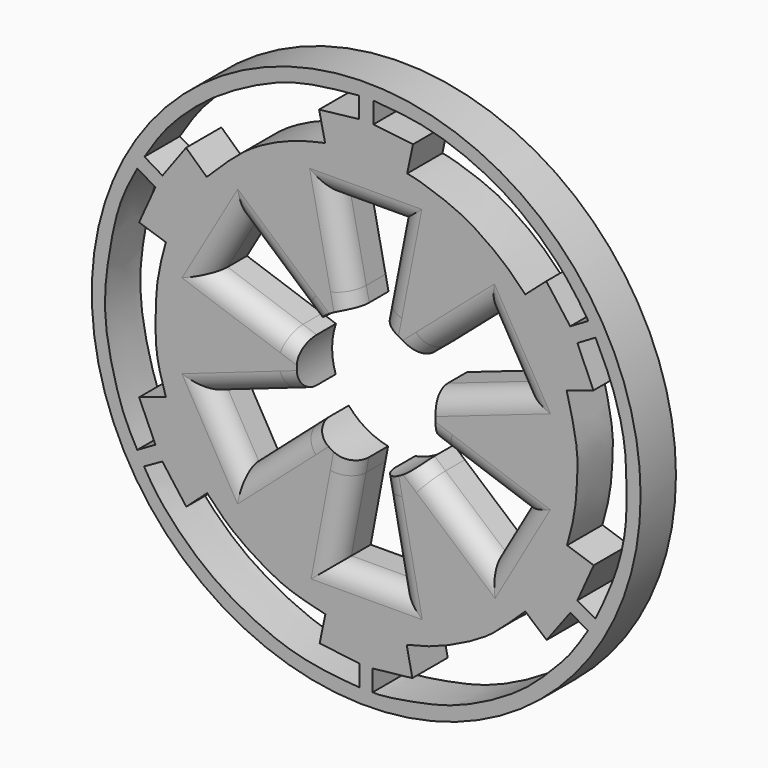
from build123d import *

# Parameters (mm, degrees)
F0_R     = 44.1766957939
F1_DEPTH = 7.112
F2_R     = 3.2356953031


with BuildPart() as f1:
    # F0 (on Front) → F1 (new body)
    with BuildSketch(Plane.XZ):
        Circle(F0_R)
        with BuildLine():
            Line((-35.7614904642, -21.8675043434), (-32.8106060624, -20.2139895409))
            Line((-32.8106060624, -20.2139895409), (-28.960403055, -25.3720507026))
            Line((-28.960403055, -25.3720507026), (-25.6024971604, -22.3448481411))
            add(Edge.make_bspline(
                [(-25.6024971604, -22.3448481411), (-24.4866790774, -23.5368590352), (-22.204068401, -25.9753360906), (-17.7013799325, -29.0917808365), (-12.9462521926, -31.7846215915), (-8.7627386027, -32.7983811652), (-6.5728682093, -33.3290360868)],
                knots=[0, 0, 0, 0, 0.2355446258, 0.4818497619, 0.7287729939, 1, 1, 1, 1], degree=3))
            Line((-6.5728682093, -33.3290360868), (-7.490250282, -37.7452149987))
            Line((-7.490250282, -37.7452149987), (-1.1156453984, -38.5228171945))
            Line((-1.1156453984, -38.5228171945), (-1.1156453984, -41.9061630964))
            add(Edge.make_bspline(
                [(-35.7614904642, -21.8675043434), (-35.2338448714, -22.7604678514), (-34.0865501542, -24.7020974776), (-31.2890173993, -28.1627256368), (-26.2777085453, -33.0596634812), (-20.0181100974, -37.0541543915), (-12.9599832666, -40.2091309454), (-6.7449542396, -41.4599766224), (-2.9534000516, -41.7605002287), (-1.1156453984, -41.9061630964)],
                knots=[0, 0, 0, 0, 0.1055322762, 0.2294658093, 0.3854964247, 0.5481129391, 0.7120197184, 0.8604168433, 1, 1, 1, 1], degree=3))
        make_face(mode=Mode.SUBTRACT)
        with BuildLine():
            Line((29.0394388139, -25.4001896828), (32.8793115914, -20.255388692))
            Line((32.8793115914, -20.255388692), (35.6775633991, -21.9343416393))
            add(Edge.make_bspline(
                [(1.0446998058, -41.9061630964), (1.4142405393, -41.9243444832), (2.4177240084, -41.9737158229), (6.2635475029, -41.3957263121), (9.9347318114, -40.7048681306), (14.3227087538, -39.6100702965), (19.5640532357, -37.2118500308), (23.7432665832, -34.7364439875), (27.2077761914, -32.1462858648), (31.2241198499, -28.0559070873), (33.2655694418, -25.6975315778), (34.8310406537, -23.2550853619), (35.6775633991, -21.9343416393)],
                knots=[0, 0, 0, 0, 0.0564376647, 0.1532558075, 0.2510560866, 0.3562412055, 0.4759055262, 0.5848852008, 0.689364245, 0.8068772402, 0.8955695847, 1, 1, 1, 1], degree=3))
            Line((1.0446998058, -41.9061630964), (1.0446998058, -38.5228171945))
            Line((1.0446998058, -38.5228171945), (7.4303904548, -37.824023515))
            Line((7.4303904548, -37.824023515), (6.5205958672, -33.3953052759))
            add(Edge.make_bspline(
                [(6.5205958672, -33.3953052759), (7.7992360224, -33.0926907352), (10.5186850112, -32.449081348), (15.2023600967, -30.4614472633), (19.6829738823, -27.9527868768), (22.4818586441, -25.4265122473), (24.5413294263, -23.4663723344), (25.6055921743, -22.453440319)],
                knots=[0, 0, 0, 0, 0.1907843597, 0.4057657128, 0.6200100275, 0.8036344211, 1, 1, 1, 1], degree=3))
            Line((25.6055921743, -22.453440319), (29.0394388139, -25.4001896828))
        make_face(mode=Mode.SUBTRACT)
        with BuildLine():
            Line((-33.9299067855, -18.2043351233), (-36.8553549051, -19.8832862079))
            add(Edge.make_bspline(
                [(-36.8683189154, 19.9755635113), (-37.8473096829, 18.1661673169), (-39.9227314212, 14.3303188905), (-41.4462825011, 6.4196994134), (-42.2825510016, -0.0305786633), (-41.7032306283, -6.7321583358), (-39.3782984167, -15.3221356766), (-37.6167947073, -18.5067030452), (-36.8553549051, -19.8832862079)],
                knots=[0, 0, 0, 0, 0.1604269609, 0.3400988172, 0.5016116203, 0.6671400202, 0.8561156381, 1, 1, 1, 1], degree=3))
            Line((-36.8683189154, 19.9755635113), (-33.9174345136, 18.3220505714))
            Line((-33.9174345136, 18.3220505714), (-36.5551263094, 12.4670509249))
            Line((-36.5551263094, 12.4670509249), (-32.259516418, 11.0363457352))
            add(Edge.make_bspline(
                [(-32.2571396828, -10.874543339), (-32.8195026762, -9.0678543769), (-33.9351137732, -5.4837596226), (-33.931475749, 0.0080421078), (-33.7498900918, 5.4994693455), (-32.7600555231, 9.1767965485), (-32.259516418, 11.0363457352)],
                knots=[0, 0, 0, 0, 0.2512797598, 0.4984867279, 0.7463949913, 1, 1, 1, 1], degree=3))
            Line((-32.2571396828, -10.874543339), (-36.5529023111, -12.326631695))
            Line((-36.5529023111, -12.326631695), (-33.9299067855, -18.2043351233))
        make_face(mode=Mode.SUBTRACT)
        with BuildLine():
            Line((2.1711112191, -10.9630858828), (2.6238481259, -13.2574641479))
            Line((2.6238481259, -13.2574641479), (5.0995848142, -25.8039925247))
            Line((5.0995848142, -25.8039925247), (-4.9646515399, -25.8305668831))
            Line((-4.9646515399, -25.8305668831), (-2.595354112, -13.2630717277))
            Line((-2.595354112, -13.2630717277), (-2.1620836942, -10.9648698168))
            ThreePointArc((-2.1620836942, -10.9648698168), (-5.6421371106, -9.6472413065), (-8.4966954033, -7.2601062819))
            Line((-8.4966954033, -7.2601062819), (-10.2534928431, -8.8040228951))
            Line((-10.2534928431, -8.8040228951), (-19.8817905039, -17.2656066716))
            Line((-19.8817905039, -17.2656066716), (-24.918647483, -8.5147023201))
            Line((-24.918647483, -8.5147023201), (-12.8144619972, -4.2935414687))
            Line((-12.8144619972, -4.2935414687), (-10.6060671452, -3.5233954803))
            ThreePointArc((-10.6060671452, -3.5233954803), (-11.1757611038, 0.0730735954), (-10.5590862727, 3.6617855053))
            Line((-10.5590862727, 3.6617855053), (-12.769271678, 4.4261309782))
            Line((-12.769271678, 4.4261309782), (-24.8842462897, 8.6158365011))
            Line((-24.8842462897, 8.6158365011), (-19.847387448, 17.3158627003))
            Line((-19.847387448, 17.3158627003), (-10.1853755393, 8.8827394279))
            Line((-10.1853755393, 8.8827394279), (-8.4234761864, 7.3449319219))
            ThreePointArc((-8.4234761864, 7.3449319219), (-5.5652229601, 9.6918145569), (-2.0975513649, 10.9773974271))
            Line((-2.0975513649, 10.9773974271), (-2.567479075, 13.2684959894))
            Line((-2.567479075, 13.2684959894), (-5.1443860866, 25.8320197463))
            Line((-5.1443860866, 25.8320197463), (5.0252802209, 25.857816598))
            Line((5.0252802209, 25.857816598), (2.5644704001, 13.2690778198))
            Line((2.5644704001, 13.2690778198), (2.1158141978, 10.9738920297))
            ThreePointArc((2.1158141978, 10.9738920297), (5.5380334394, 9.7073766603), (8.3698544885, 7.4059781151))
            Line((8.3698544885, 7.4059781151), (10.1363668293, 8.9386241739))
            Line((10.1363668293, 8.9386241739), (19.8115911335, 17.3329580575))
            Line((19.8115911335, 17.3329580575), (24.8837284744, 8.6329318583))
            Line((24.8837284744, 8.6329318583), (12.7654122958, 4.4372495467))
            Line((12.7654122958, 4.4372495467), (10.5554972691, 3.6721183807))
            ThreePointArc((10.5554972691, 3.6721183807), (11.0197825178, 1.8620873396), (11.176, 0))
            ThreePointArc((11.176, 0), (11.0313792921, -1.7921068369), (10.6012600367, -3.5378329008))
            Line((10.6012600367, -3.5378329008), (12.8098029544, -4.3074218382))
            Line((12.8098029544, -4.3074218382), (24.8837284744, -8.5147023201))
            Line((24.8837284744, -8.5147023201), (19.8977496475, -17.2002650797))
            Line((19.8977496475, -17.2002650797), (10.1939157276, -8.8729373243))
            Line((10.1939157276, -8.8729373243), (8.419132603, -7.3499103541))
            ThreePointArc((8.419132603, -7.3499103541), (5.5948257706, -9.6747558417), (2.1711112191, -10.9630858828))
        make_face(mode=Mode.SUBTRACT)
        with BuildLine():
            add(Edge.make_bspline(
                [(-35.6981419027, 22.0360960811), (-34.6319390776, 23.7268379349), (-32.484600451, 27.1320017598), (-27.9146496351, 31.5478201486), (-23.8299996259, 34.7154749769), (-17.6296681743, 38.2638751465), (-10.4512096865, 41.0851595996), (-4.3688276658, 41.648307375), (-1.1853148462, 41.9430583715)],
                knots=[0, 0, 0, 0, 0.1566037405, 0.3154008348, 0.4604208672, 0.6286242725, 0.8056223063, 1, 1, 1, 1], degree=3))
            Line((-1.1853148462, 41.9430583715), (-1.1853148462, 38.5973155499))
            Line((-1.1853148462, 38.5973155499), (-7.5810640119, 37.8660485148))
            Line((-7.5810640119, 37.8660485148), (-6.6097197123, 33.4410332143))
            add(Edge.make_bspline(
                [(-25.6765991733, 22.4260363519), (-24.3333432454, 23.7606678176), (-21.7133494369, 26.3638397849), (-17.8323338836, 29.4743374528), (-11.8037332381, 32.3002630954), (-8.2803244864, 33.0741154161), (-6.6097197123, 33.4410332143)],
                knots=[0, 0, 0, 0, 0.2489268939, 0.4855269254, 0.7560654369, 1, 1, 1, 1], degree=3))
            Line((-25.6765991733, 22.4260363519), (-28.9963893592, 25.4952777177))
            Line((-28.9963893592, 25.4952777177), (-32.7981300652, 20.3062668443))
            Line((-32.7981300652, 20.3062668443), (-35.6981419027, 22.0360960811))
        make_face(mode=Mode.SUBTRACT)
        with BuildLine():
            Line((36.574523896, 12.4182878062), (34.0049043298, 18.3071866632))
            Line((34.0049043298, 18.3071866632), (36.9141213596, 20.0184900314))
            add(Edge.make_bspline(
                [(36.9141213596, 20.0184900314), (37.8938705727, 18.0039971875), (39.8850886304, 13.9097917787), (41.7594651651, 6.715363759), (41.8651560314, 1.397564654), (42.0610136055, -4.9001243802), (40.4255886988, -12.4247769104), (38.0893073425, -17.3422025728), (36.8986204267, -19.8483709246)],
                knots=[0, 0, 0, 0, 0.1662522108, 0.3378868794, 0.484123471, 0.6417151571, 0.8173999576, 1, 1, 1, 1], degree=3))
            Line((36.8986204267, -19.8483709246), (33.9986123145, -18.1694179773))
            Line((33.9986123145, -18.1694179773), (36.6232842207, -12.3396720737))
            Line((36.6232842207, -12.3396720737), (32.3421731591, -10.9006436542))
            add(Edge.make_bspline(
                [(32.3421731591, -10.9006436542), (32.8221995517, -9.1892580119), (33.7840723972, -5.7599978652), (34.001178244, -0.020287475), (34.0713324341, 2.1855798208), (33.5478638453, 6.0205740931), (32.7250879437, 9.2526276599), (32.2753861547, 11.0191600397)],
                knots=[0, 0, 0, 0, 0.2254438377, 0.4517424647, 0.5945217901, 0.7783791722, 1, 1, 1, 1], degree=3))
            Line((32.2753861547, 11.0191600397), (36.574523896, 12.4182878062))
        make_face(mode=Mode.SUBTRACT)
        with BuildLine():
            Line((1.1531068012, 38.5973155499), (1.1531068012, 41.9790335))
            add(Edge.make_bspline(
                [(1.1531068012, 41.9790335), (3.4652329605, 41.7997953198), (8.0343743744, 41.4455912082), (14.3842373709, 39.6875593474), (20.8604600663, 36.7642913447), (26.7090201677, 32.7528107578), (32.3502142279, 27.2160608198), (34.6669622808, 23.6708778177), (35.7565619051, 22.0035277307)],
                knots=[0, 0, 0, 0, 0.1661180396, 0.3282765568, 0.4958824441, 0.6653985731, 0.8426321806, 1, 1, 1, 1], degree=3))
            Line((35.7565619051, 22.0035277307), (32.842528075, 20.2946811914))
            Line((32.842528075, 20.2946811914), (28.9931260049, 25.4392083734))
            Line((28.9931260049, 25.4392083734), (25.6114080548, 22.4712118506))
            add(Edge.make_bspline(
                [(25.6114080548, 22.4712118506), (24.5168671139, 23.6090766646), (22.278164541, 25.9363910587), (17.811051605, 29.0791098257), (14.3612187846, 31.0432744902), (8.7915992704, 32.9829132835), (7.1957498764, 33.2913618908), (6.5884473734, 33.408742398)],
                knots=[0, 0, 0, 0, 0.211003518, 0.4315728183, 0.6286921316, 0.8586983216, 1, 1, 1, 1], degree=3))
            Line((6.5884473734, 33.408742398), (7.529664319, 37.858132273))
            Line((7.529664319, 37.858132273), (1.1531068012, 38.5973155499))
        make_face(mode=Mode.SUBTRACT)
    extrude(amount=F1_DEPTH)

    # F2
    f2_edges = [f1.edges().sort_by_distance(p)[0] for p in [
        (-17.721666, -7.112, 6.138811),
        (-17.762357, -7.112, -6.019049),
        (-14.135432, -7.112, 12.330397),
        (-3.620969, -7.112, 18.404709),
        (3.570547, -7.112, 18.415854),
        (14.090723, -7.112, 12.369468),
        (17.719613, -7.112, 6.152525),
        (17.742494, -7.112, -6.026268),
        (14.158441, -7.112, -12.275088),
        (3.635348, -7.112, -18.383539),
        (-14.189243, -7.112, -12.262856),
        (-3.563368, -7.112, -18.397718),
        (0.067467, -7.112, -25.81728),
        (-22.400219, -7.112, -12.890154),
        (-22.365817, -7.112, 12.96585),
        (-0.059553, -7.112, 25.844918),
        (22.34766, -7.112, 12.982945),
        (22.390739, -7.112, -12.857484),
    ]]
    fillet(f2_edges, radius=F2_R)


solid = f1.part
